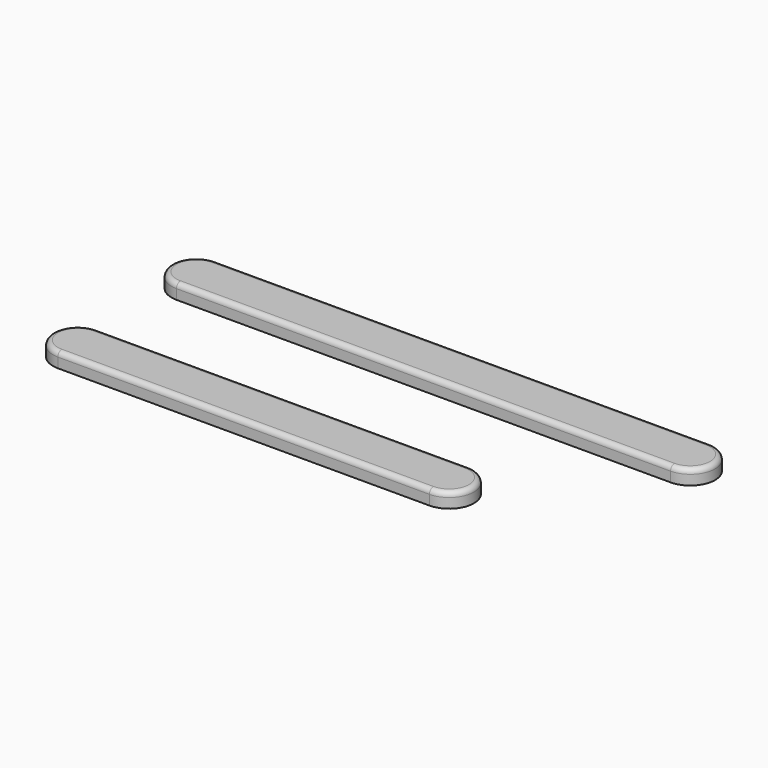
from build123d import *

# Parameters (mm, degrees)
PAD_DEPTH    = 1.5
FILLET001_R  = 0.5
PAD001_DEPTH = 1.5
FILLET_R     = 0.5


with BuildPart() as obj1:
    # Sketch001 → Pad (new body)
    with BuildSketch(Plane.XY):
        with BuildLine():
            ThreePointArc((0, 17.5), (-2.5, 15), (0, 12.5))
            Line((0, 12.5), (50, 12.5))
            ThreePointArc((50, 12.5), (52.5, 15), (50, 17.5))
            Line((50, 17.5), (0, 17.5))
        make_face()
    extrude(amount=PAD_DEPTH)

    # Fillet001
    fillet001_edges = [obj1.edges().sort_by_distance(p)[0] for p in [
        (-2.5, 15, 1.5),
        (25, 12.5, 1.5),
        (52.5, 15, 1.5),
        (25, 17.5, 1.5),
    ]]
    fillet(fillet001_edges, radius=FILLET001_R)


with BuildPart() as obj2:
    # Sketch002 → Pad001 (new body)
    with BuildSketch(Plane.XY):
        with BuildLine():
            ThreePointArc((0, 2.5), (-2.5, 0), (0, -2.5))
            Line((0, -2.5), (37.6, -2.5))
            ThreePointArc((37.6, -2.5), (40.1, 0), (37.6, 2.5))
            Line((37.6, 2.5), (0, 2.5))
        make_face()
    extrude(amount=PAD001_DEPTH)

    # Fillet
    fillet_edges = [obj2.edges().sort_by_distance(p)[0] for p in [
        (-2.5, 0, 1.5),
        (18.8, -2.5, 1.5),
        (40.1, 0, 1.5),
        (18.8, 2.5, 1.5),
    ]]
    fillet(fillet_edges, radius=FILLET_R)


solid = Compound([obj1.part, obj2.part])
